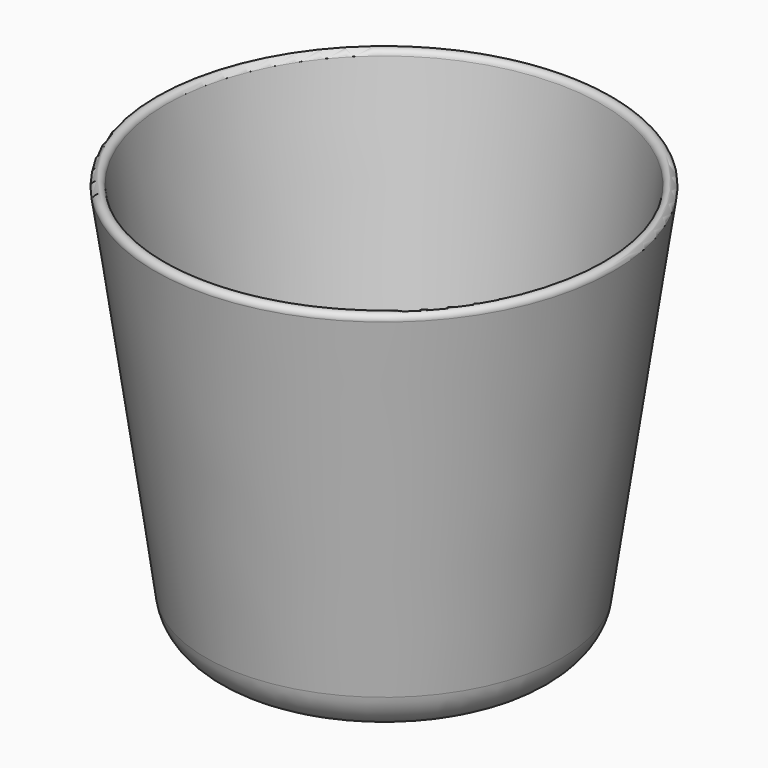
from build123d import *


with BuildPart() as f1:
    # F0 (on Front) → F1 (revolve)
    with BuildSketch(Plane.XZ):
        with BuildLine():
            Line((0, 12), (0, 0))
            Line((0, 0), (23.061637, 0))
            ThreePointArc((23.061637, 0), (28.303251, 1.956368), (30.981233, 6.868629))
            Line((30.981233, 6.868629), (39.838376, 68.868629))
            ThreePointArc((39.838376, 68.868629), (38.989847, 70), (37.858477, 69.151472))
            Line((37.858477, 69.151472), (30.307251, 16.292893))
            ThreePointArc((30.307251, 16.292893), (28.633512, 13.22273), (25.357504, 12))
            Line((25.357504, 12), (0, 12))
        make_face()
    revolve(axis=Axis((0, 0, 6), (0, 0, -1)))


solid = f1.part
